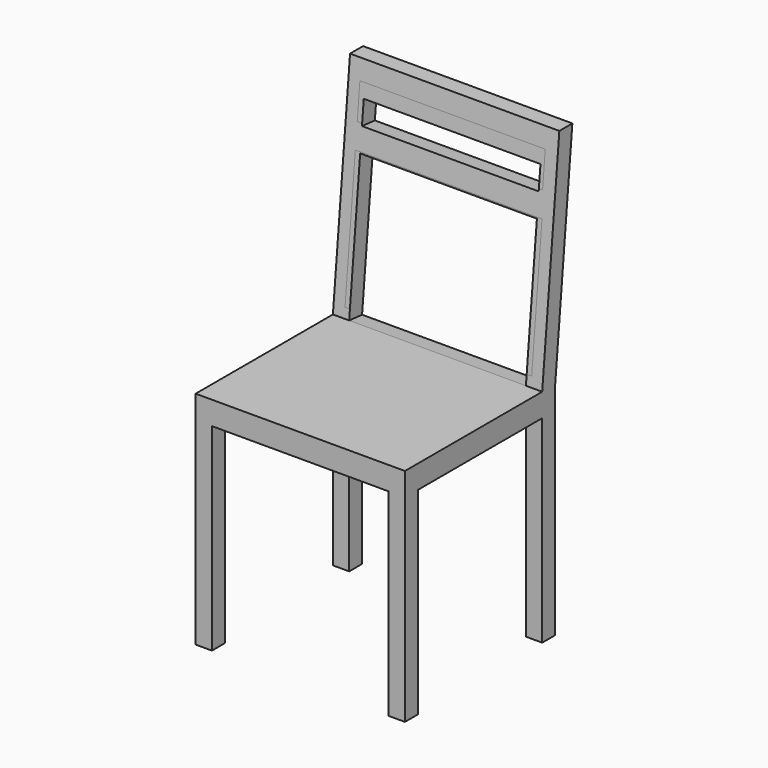
from build123d import *

# Parameters (mm, degrees)
F0_W     = 450
F0_H     = 450
F1_DEPTH = 950
F2_W     = 46.0927397013
F2_H     = 50
F2_W_2   = 333.9072602987
F2_H_2   = 425
F3_DEPTH = 450.001
F4_W     = 398.5071629286
F4_H     = 74.7186541557
F4_W_2   = 401.3135582209
F4_H_2   = 287.5961661339
F5_DEPTH = 413.0608200261
F6_W     = 380
F6_H     = 425
F7_DEPTH = 450.001
F8_W     = 380
F8_H     = 305.6115476475
F8_H_2   = 50
F9_DEPTH = 126.5918704384


with BuildPart() as f1:
    # F0 (on Top) → F1 (new body)
    with BuildSketch(Plane.XY):
        Rectangle(F0_W, F0_H)
    extrude(amount=F1_DEPTH)

    # F2 (on face) → F3 (cut, through all)
    with BuildSketch(Plane.YZ.offset(225)):
        with Locations((201.9536301494, 450)):
            Rectangle(F2_W, F2_H)
        Polygon((-225, 950), (-225, 475), (143.9072602987, 475), (190, 950), align=None)
        Polygon((225, 950), (178.9072602987, 475), (225, 475), align=None)
        with Locations((-23.0463698506, 212.5)):
            Rectangle(F2_W_2, F2_H_2)
        with Locations((201.9536301494, 212.5)):
            Rectangle(F2_W, F2_H_2)
    extrude(amount=-F3_DEPTH, mode=Mode.SUBTRACT)

    # F4 (on face) → F5 (cut, through all)
    with BuildSketch(Plane(origin=(0, 96.9020668341, -9.4031194592), x_dir=(1, 0, 0), z_dir=(0, -0.9953248675, 0.0965836843))):
        with Locations((-1.3172850013, 884.6258819103)):
            Rectangle(F4_W, F4_H)
        with Locations((0.0859126449, 651.3064205647)):
            Rectangle(F4_W_2, F4_H_2)
    extrude(amount=F5_DEPTH, mode=Mode.SUBTRACT)

    # F6 (on face) → F7 (cut, through all)
    with BuildSketch(Plane.XZ.offset(225)):
        with Locations((0, 212.5)):
            Rectangle(F6_W, F6_H)
    extrude(amount=-F7_DEPTH, mode=Mode.SUBTRACT)

    # F8 (on face) → F9 (cut, through all)
    with BuildSketch(Plane(origin=(0, 96.9020668341, -9.4031194592), x_dir=(1, 0, 0), z_dir=(0, -0.9953248675, 0.0965836843))):
        with Locations((0, 639.4841792974)):
            Rectangle(F8_W, F8_H)
        with Locations((0, 867.2899531212)):
            Rectangle(F8_W, F8_H_2)
    extrude(amount=-F9_DEPTH, mode=Mode.SUBTRACT)


solid = f1.part
